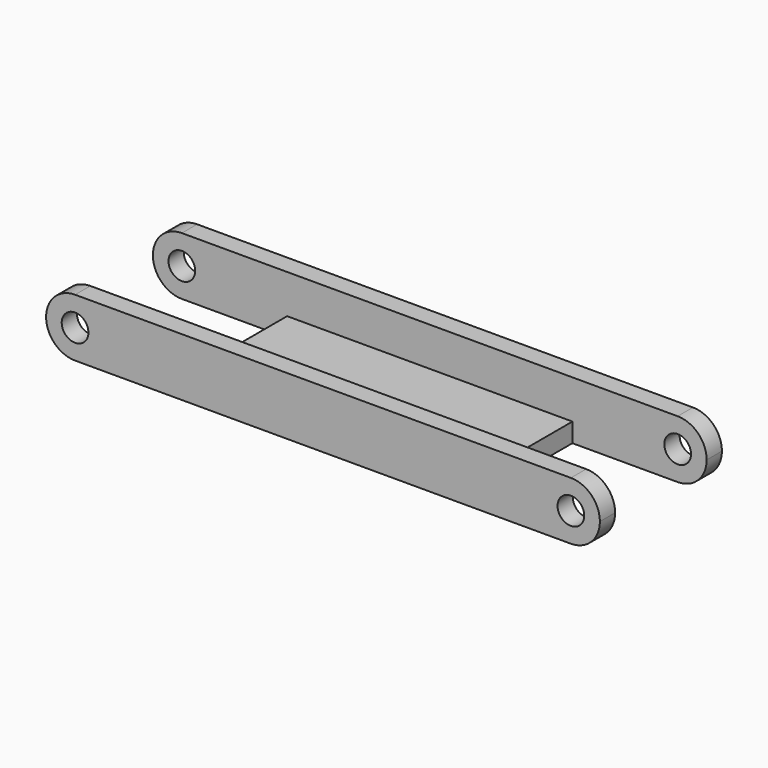
from build123d import *

# Parameters (mm, degrees)
F0_W     = 15
F0_H     = 2.5
F1_DEPTH = 18.7
F2_DEPTH = 36.3
F3_R     = 1.75
F4_DEPTH = 20.001


with BuildPart() as f1:
    # F0 (on Right) → F1 (new body, symmetric)
    with BuildSketch(Plane.YZ):
        with Locations((0, 1.25)):
            Rectangle(F0_W, F0_H)
    extrude(amount=F1_DEPTH, both=True)

    # F0 (on Right) → F2 (join, symmetric)
    with BuildSketch(Plane.YZ):
        Polygon((-10, 0), (-7.5, 0), (-7.5, 2.5), (-7.5, 7.6), (-10, 7.6), align=None)
        Polygon((7.5, 2.5), (7.5, 0), (10, 0), (10, 7.6), (7.5, 7.6), align=None)
    extrude(amount=F2_DEPTH, both=True)

    # F3 (on face) → F4 (cut, through all)
    with BuildSketch(Plane.XZ.offset(10)):
        with Locations((-32.5, 3.8)):
            Circle(F3_R)
        with Locations((32.5, 3.8)):
            Circle(F3_R)
        Polygon((-36.3, 0), (-36.3, 3.8), (-36.3, 7.6), (-40.478576, 7.6), (-40.478576, 0), align=None)
        with BuildLine():
            Line((-36.3, 0), (-32.5, 0))
            ThreePointArc((-32.5, 0), (-35.187006, 1.112994), (-36.3, 3.8))
            Line((-36.3, 3.8), (-36.3, 0))
        make_face()
        with BuildLine():
            ThreePointArc((-36.3, 3.8), (-35.187006, 6.487006), (-32.5, 7.6))
            Line((-32.5, 7.6), (-36.3, 7.6))
            Line((-36.3, 7.6), (-36.3, 3.8))
        make_face()
        with BuildLine():
            Line((36.3, 7.6), (32.5, 7.6))
            ThreePointArc((32.5, 7.6), (35.187006, 6.487006), (36.3, 3.8))
            Line((36.3, 3.8), (36.3, 7.6))
        make_face()
        with BuildLine():
            ThreePointArc((36.3, 3.8), (35.187006, 1.112994), (32.5, 0))
            Line((32.5, 0), (36.3, 0))
            Line((36.3, 0), (36.3, 3.8))
        make_face()
        Polygon((40.478576, 7.6), (36.3, 7.6), (36.3, 3.8), (36.3, 0), (40.478576, 0), align=None)
    extrude(amount=-F4_DEPTH, mode=Mode.SUBTRACT)


solid = f1.part
